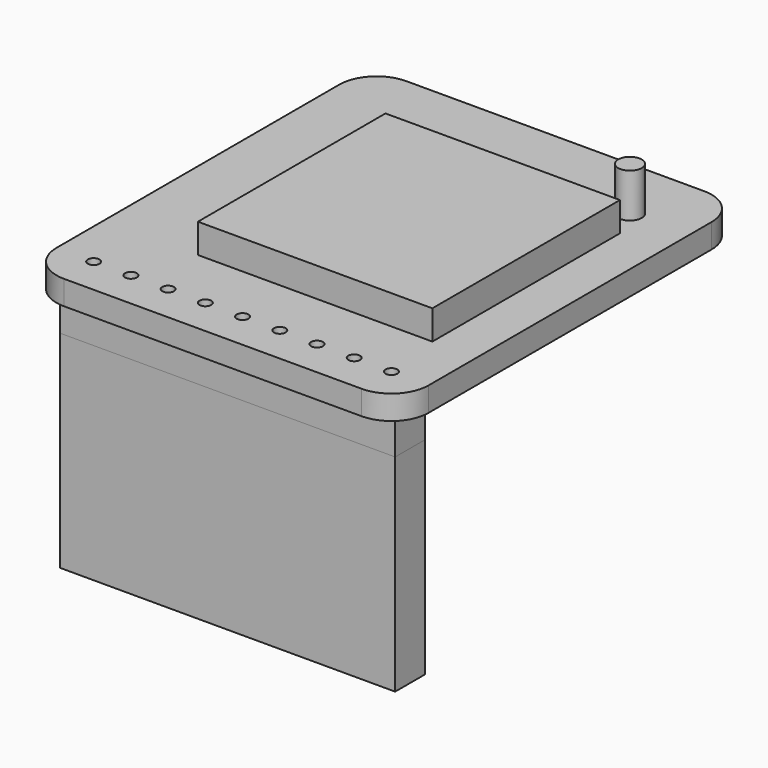
from build123d import *

# Parameters (mm, degrees)
PAD005_DEPTH            = 1.65
SKETCH013_R             = 0.4
POCKET004_DEPTH         = 1.651
LINEARPATTERN004_COUNT  = 5
LINEARPATTERN004_PITCH  = 2.54
LINEARPATTERN005_COUNT  = 5
LINEARPATTERN005_PITCH  = 2.54
SKETCH014_W             = 22.86
SKETCH014_H             = 2.54
PAD007_DEPTH            = 2.54
SKETCH016_W             = 20.92
SKETCH016_H             = 0.6
PAD008_DEPTH            = 8.74
SKETCH017_W             = 1.94
SKETCH017_H             = 12.4
POCKET005_DEPTH         = 0.001
POCKET005_DEPTH_BACK    = 12.366
LINEARPATTERN_COUNT     = 2
LINEARPATTERN_PITCH     = 10.16
LINEARPATTERN006_COUNT  = 2
LINEARPATTERN006_PITCH  = 10.16
BODY013_PLACEMENT_ANGLE = 180
SKETCH018_W             = 22.86
SKETCH018_H             = 2.54
PAD009_DEPTH            = 14.1
SKETCH_W                = 16
SKETCH_H                = 16
PAD_DEPTH               = 2
SKETCH019_R             = 0.8
PAD010_DEPTH            = 3


with BuildPart() as mainboard:
    # Sketch009 → Pad005 (new body)
    with BuildSketch(Plane.XY):
        with BuildLine():
            Line((-10.16, 14.605), (10.16, 14.605))
            ThreePointArc((12.7, 12.065), (11.956051, 13.861051), (10.16, 14.605))
            Line((12.7, 12.065), (12.7, -12.065))
            ThreePointArc((10.16, -14.605), (11.956051, -13.861051), (12.7, -12.065))
            Line((10.16, -14.605), (-10.16, -14.605))
            ThreePointArc((-12.7, -12.065), (-11.956051, -13.861051), (-10.16, -14.605))
            Line((-12.7, -12.065), (-12.7, 12.065))
            ThreePointArc((-10.16, 14.605), (-11.956051, 13.861051), (-12.7, 12.065))
        make_face()
    extrude(amount=-PAD005_DEPTH)

    # Sketch013 → Pocket004 (cut, through all)
    with BuildSketch(Plane.XY):
        with Locations((0, -12.065)):
            Circle(SKETCH013_R)
    pocket004 = extrude(amount=-POCKET004_DEPTH, mode=Mode.SUBTRACT)

    # LinearPattern004: Pocket004 ×5
    with Locations(*[(i * LINEARPATTERN004_PITCH, 0, 0) for i in range(1, LINEARPATTERN004_COUNT)]):
        add(pocket004, mode=Mode.SUBTRACT)

    # LinearPattern005: Pocket004 ×5
    with Locations(*[(-i * LINEARPATTERN005_PITCH, 0, 0) for i in range(1, LINEARPATTERN005_COUNT)]):
        add(pocket004, mode=Mode.SUBTRACT)


with BuildPart() as pinblock:
    # Sketch014 → Pad007 (new body)
    with BuildSketch(Plane.XY):
        with Locations((0, -12.065)):
            Rectangle(SKETCH014_W, SKETCH014_H)
    extrude(amount=PAD007_DEPTH)


with BuildPart() as pinblock_1:
    # Body012 placement: moved
    add(pinblock.part.moved(Location((0, 0, -4.2))))


with BuildPart() as pins:
    # Sketch016 → Pad008 (new body)
    with BuildSketch(Plane.XY):
        with Locations((0, -12.065)):
            Rectangle(SKETCH016_W, SKETCH016_H)
    extrude(amount=PAD008_DEPTH)

    # Sketch017 → Pocket005 (cut, two sides)
    with BuildSketch(Plane.XZ) as pocket005_sk:
        with Locations((-1.27, 8.44)):
            Rectangle(SKETCH017_W, SKETCH017_H)
        with Locations((1.27, 8.44)):
            Rectangle(SKETCH017_W, SKETCH017_H)
        with Locations((3.81, 8.44)):
            Rectangle(SKETCH017_W, SKETCH017_H)
        with Locations((-3.81, 8.44)):
            Rectangle(SKETCH017_W, SKETCH017_H)
    pocket005 = extrude(amount=-POCKET005_DEPTH, mode=Mode.SUBTRACT) + extrude(pocket005_sk.sketch, amount=POCKET005_DEPTH_BACK, mode=Mode.SUBTRACT)

    # LinearPattern: Pocket005 ×2
    with Locations(*[(i * LINEARPATTERN_PITCH, 0, 0) for i in range(1, LINEARPATTERN_COUNT)]):
        add(pocket005, mode=Mode.SUBTRACT)

    # LinearPattern006: Pocket005 ×2
    with Locations(*[(-i * LINEARPATTERN006_PITCH, 0, 0) for i in range(1, LINEARPATTERN006_COUNT)]):
        add(pocket005, mode=Mode.SUBTRACT)


with BuildPart() as pins_1:
    # Body013 placement: moved
    add(pins.part.moved(Location((0, -24.1, -1.6))).rotate(Axis((0, -24.1, -1.6), (1, 0, 0)), BODY013_PLACEMENT_ANGLE))


with BuildPart() as jumperheader:
    # Sketch018 → Pad009 (new body)
    with BuildSketch(Plane.XY):
        with Locations((0, -12.065)):
            Rectangle(SKETCH018_W, SKETCH018_H)
    extrude(amount=-PAD009_DEPTH)


with BuildPart() as jumperheader_1:
    # Body014 placement: moved
    add(jumperheader.part.moved(Location((0, 0, -4.2))))


with BuildPart() as obj1:
    # Sketch → Pad (new body)
    with BuildSketch(Plane.XY):
        with Locations((1.7, 0)):
            Rectangle(SKETCH_W, SKETCH_H)
    extrude(amount=PAD_DEPTH)


with BuildPart() as antenna:
    # Sketch019 → Pad010 (new body, symmetric)
    with BuildSketch(Plane.XY):
        with Locations((8.7, 10.105)):
            Circle(SKETCH019_R)
    extrude(amount=PAD010_DEPTH, both=True)


solid = Compound([mainboard.part, pinblock_1.part, pins_1.part, jumperheader_1.part, obj1.part, antenna.part])
